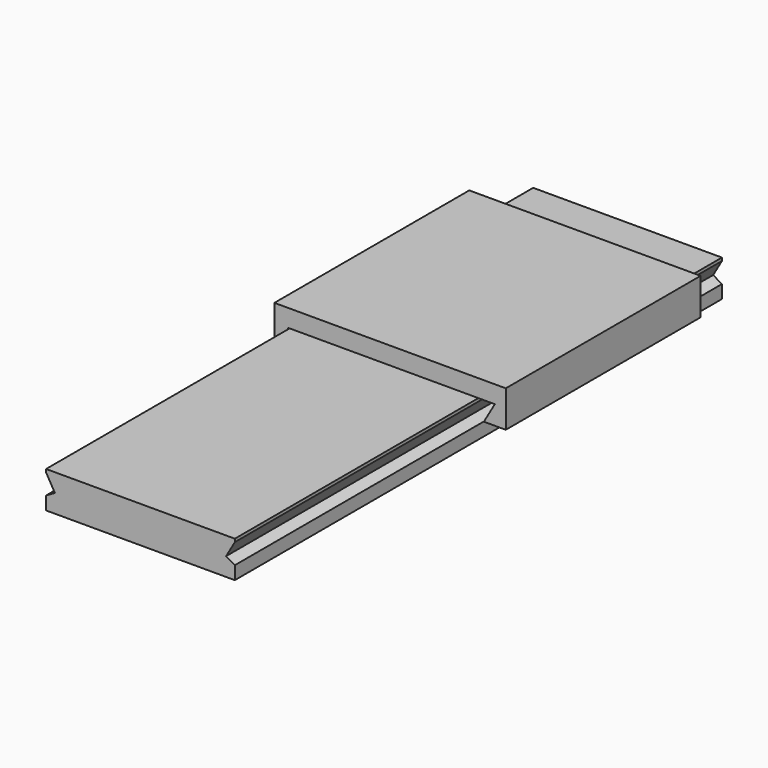
from build123d import *

# Parameters (mm, degrees)
F1_DEPTH = 250
F3_DEPTH = 200


with BuildPart() as f1:
    # F0 (on Front) → F1 (new body, symmetric)
    with BuildSketch(Plane.XZ):
        Polygon((77.5, 12.5), (77.5, 15), (-77.5, 15), (-77.5, 12.5), (-70.283122, 0), (-77.5, -4.166667), (-77.5, -15), (77.5, -15), (77.5, -4.166667), (70.283122, 0), align=None)
    extrude(amount=F1_DEPTH, both=True)


with BuildPart() as f3:
    # F2 (on Front) → F3 (new body)
    with BuildSketch(Plane.XZ):
        Polygon((-90, 29.411543), (-90, -0.588457), (-70, -0.588457), (-79, 15), (91, 15), (82, -0.588457), (100, -0.588457), (100, 29.411543), align=None)
    extrude(amount=-F3_DEPTH)


solid = Compound([f1.part, f3.part])
